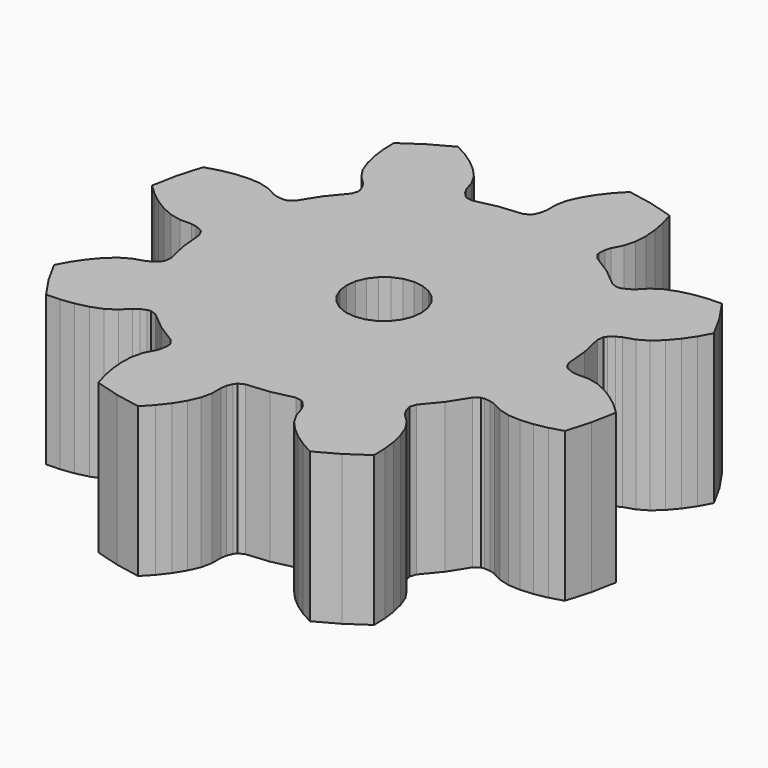
from build123d import *

# Parameters (mm, degrees)
F1_DEPTH = 3


with BuildPart() as f1:
    # F0 (on Top) → F1 (new body)
    with BuildSketch(Plane.XY):
        Polygon((101.709135, 0.00046), (101.766895, -0.11545), (101.809645, -0.5679), (101.908795, -1.01142), (101.889695, -1.13951), (101.849315, -1.19556), (101.757435, -1.2726), (101.657725, -1.32647), (101.444005, -1.39372), (101.246845, -1.50722), (101.068605, -1.66952), (100.904735, -1.8624), (100.755585, -2.08157), (100.622125, -2.32441), (100.866235, -2.76928), (101.151795, -3.18874), (101.428745, -3.18008), (101.691735, -3.14668), (101.938005, -3.08824), (102.163525, -3.00311), (102.354165, -2.87897), (102.511115, -2.71907), (102.604375, -2.65469), (102.714735, -2.60779), (102.783005, -2.59726), (102.905805, -2.63839), (103.255965, -2.92809), (103.639695, -3.17159), (103.716755, -3.27567), (103.727845, -3.34386), (103.717345, -3.46331), (103.684935, -3.5719), (103.581365, -3.77058), (103.522205, -3.99025), (103.510935, -4.23104), (103.531445, -4.48331), (103.580955, -4.74375), (103.658305, -5.00983), (104.145475, -5.15179), (104.644005, -5.24647), (104.833715, -5.04451), (104.996065, -4.83494), (105.128875, -4.61948), (105.228155, -4.39981), (105.275175, -4.17722), (105.273085, -3.95318), (105.293505, -3.84171), (105.338385, -3.73052), (105.379215, -3.67479), (105.495125, -3.61704), (105.947575, -3.57429), (106.391095, -3.47513), (106.519185, -3.49424), (106.575235, -3.53462), (106.652275, -3.6265), (106.706145, -3.72621), (106.773395, -3.93993), (106.886895, -4.13709), (107.049185, -4.31533), (107.242075, -4.4792), (107.461245, -4.62835), (107.704085, -4.76181), (108.148955, -4.5177), (108.568415, -4.23214), (108.559755, -3.95519), (108.526355, -3.6922), (108.467915, -3.44593), (108.382785, -3.22041), (108.258645, -3.02977), (108.098745, -2.87282), (108.034365, -2.77956), (107.987465, -2.6692), (107.976935, -2.60093), (108.018065, -2.47813), (108.307765, -2.12797), (108.551265, -1.74424), (108.655345, -1.66718), (108.723535, -1.65609), (108.842985, -1.66659), (108.951575, -1.699), (109.150245, -1.80257), (109.369925, -1.86173), (109.610715, -1.873), (109.862985, -1.85249), (110.123425, -1.80298), (110.389505, -1.72563), (110.531465, -1.23845), (110.626145, -0.73993), (110.424185, -0.55022), (110.214605, -0.38786), (109.999155, -0.25506), (109.779485, -0.15578), (109.556895, -0.10876), (109.332855, -0.11085), (109.221385, -0.09043), (109.110195, -0.04555), (109.054465, -0.00472), (108.996715, 0.11119), (108.953965, 0.56364), (108.854805, 1.00716), (108.873915, 1.13525), (108.914295, 1.1913), (109.006175, 1.26834), (109.105885, 1.32221), (109.319605, 1.38946), (109.516765, 1.50296), (109.695005, 1.66526), (109.858875, 1.85815), (110.008025, 2.07731), (110.141485, 2.32015), (109.897375, 2.76502), (109.611815, 3.18448), (109.334865, 3.17582), (109.071865, 3.14242), (108.825605, 3.08398), (108.600085, 2.99885), (108.409445, 2.87471), (108.252495, 2.71481), (108.159235, 2.65043), (108.048875, 2.60354), (107.980605, 2.59301), (107.857805, 2.63413), (107.507645, 2.92383), (107.123915, 3.16733), (107.046855, 3.27141), (107.035765, 3.3396), (107.046265, 3.45905), (107.078675, 3.56764), (107.182245, 3.76632), (107.241405, 3.98599), (107.252675, 4.22678), (107.232155, 4.47905), (107.182645, 4.73949), (107.105305, 5.00557), (106.618125, 5.14753), (106.119605, 5.24221), (105.929885, 5.04025), (105.767535, 4.83068), (105.634725, 4.61522), (105.535455, 4.39555), (105.488435, 4.17296), (105.490525, 3.94892), (105.470105, 3.83745), (105.425225, 3.72626), (105.384395, 3.67053), (105.268485, 3.61278), (104.816025, 3.57003), (104.372515, 3.47087), (104.244425, 3.48998), (104.188375, 3.53036), (104.111335, 3.62224), (104.057465, 3.72195), (103.990215, 3.93567), (103.876715, 4.13283), (103.714415, 4.31107), (103.521525, 4.47494), (103.302365, 4.62409), (103.059525, 4.75755), (102.614655, 4.51344), (102.195195, 4.22788), (102.203855, 3.95093), (102.237255, 3.68794), (102.295695, 3.44167), (102.380825, 3.21615), (102.504965, 3.02551), (102.664865, 2.86856), (102.729245, 2.7753), (102.776135, 2.66494), (102.786665, 2.59667), (102.745545, 2.47387), (102.455845, 2.12371), (102.212345, 1.73998), (102.108265, 1.66292), (102.040075, 1.65183), (101.920625, 1.66233), (101.812035, 1.69474), (101.613355, 1.79831), (101.393685, 1.85747), (101.152895, 1.86874), (100.900625, 1.84823), (100.640185, 1.79872), (100.374105, 1.72137), (100.232145, 1.23419), (100.137455, 0.73567), (100.339425, 0.54596), (100.548995, 0.38361), (100.764455, 0.2508), (100.984125, 0.15152), (101.206715, 0.1045), (101.430755, 0.10659), (101.542225, 0.08617), (101.653415, 0.04129), align=None)
        Polygon((106.106245, 0.19198), (106.131805, -0.00213), (106.106245, -0.19624), (106.031325, -0.37713), (105.912135, -0.53246), (105.756805, -0.65165), (105.575915, -0.72657), (105.381805, -0.75213), (105.187685, -0.72657), (105.006805, -0.65165), (104.851475, -0.53246), (104.732285, -0.37713), (104.657355, -0.19624), (104.631805, -0.00213), (104.657355, 0.19198), (104.732285, 0.37287), (104.851475, 0.5282), (105.006805, 0.64739), (105.187685, 0.72231), (105.381805, 0.74787), (105.575915, 0.72231), (105.756805, 0.64739), (105.912135, 0.5282), (106.031325, 0.37287), align=None, mode=Mode.SUBTRACT)
    extrude(amount=F1_DEPTH)


solid = f1.part
